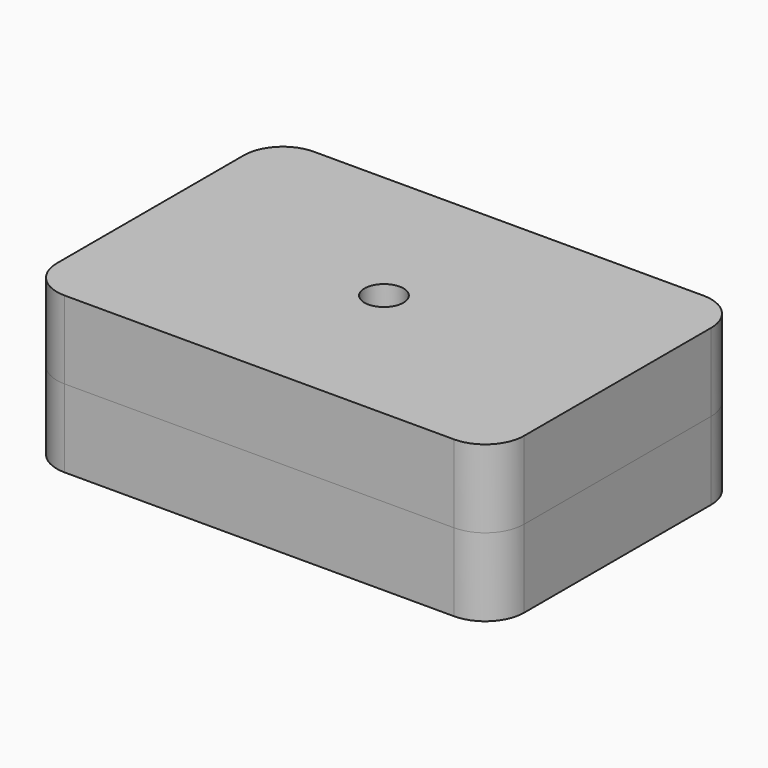
from build123d import *

# Parameters (mm, degrees)
F1_DEPTH = 12.7
F3_R     = 6.35
F3_R_2   = 3.175
F4_DEPTH = 6.35
F5_DEPTH = 12.7


with BuildPart() as f1:
    # F0 (on Top) → F1 (new body)
    with BuildSketch(Plane.XY):
        with BuildLine():
            Line((31.75, 25.4), (-31.75, 25.4))
            ThreePointArc((-31.75, 25.4), (-36.2401280605, 23.5401280605), (-38.1, 19.05))
            Line((-38.1, 19.05), (-38.1, -19.05))
            ThreePointArc((-38.1, -19.05), (-36.2401280605, -23.5401280605), (-31.75, -25.4))
            Line((-31.75, -25.4), (31.75, -25.4))
            ThreePointArc((31.75, -25.4), (36.2401280605, -23.5401280605), (38.1, -19.05))
            Line((38.1, -19.05), (38.1, 19.05))
            ThreePointArc((38.1, 19.05), (36.2401280605, 23.5401280605), (31.75, 25.4))
        make_face()
    extrude(amount=F1_DEPTH)


with BuildPart() as f2_1:
    # F2: copy of F1
    add(f1.part.moved(Location((0, 0, 12.7))))

    # F3 (on face) → F4 (cut)
    with BuildSketch(Plane(origin=(0, 0, 12.7), x_dir=(1, 0, 0), z_dir=(0, 0, -1))):
        Circle(F3_R)
        Circle(F3_R_2, mode=Mode.SUBTRACT)
        Circle(F3_R_2)
    extrude(amount=-F4_DEPTH, mode=Mode.SUBTRACT)

    # F3 (on face) → F5 (cut, through all)
    with BuildSketch(Plane(origin=(0, 0, 12.7), x_dir=(1, 0, 0), z_dir=(0, 0, -1))):
        Circle(F3_R_2)
    extrude(amount=-F5_DEPTH, mode=Mode.SUBTRACT)


solid = Compound([f1.part, f2_1.part])
